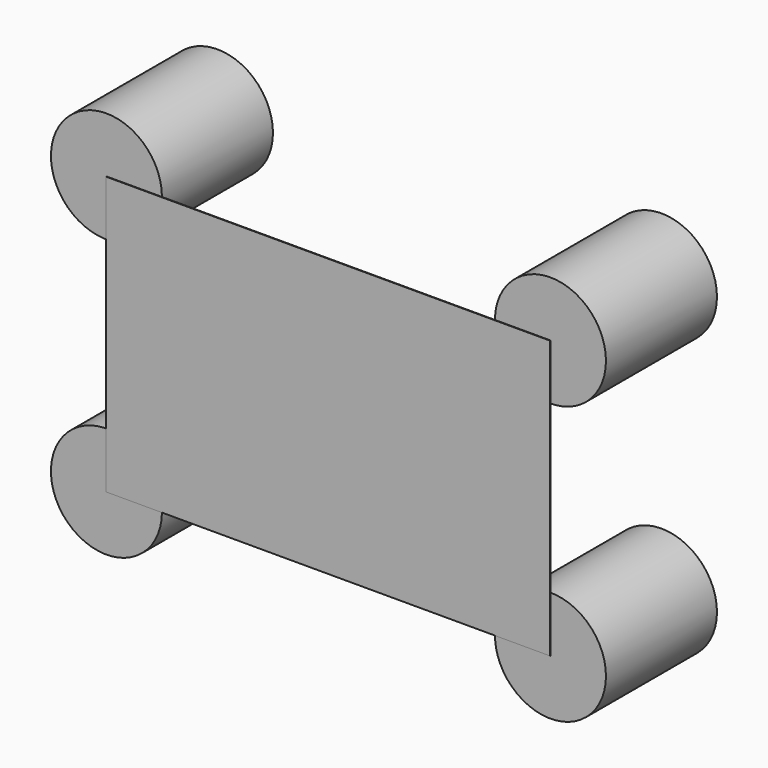
from build123d import *

# Parameters (mm, degrees)
F0_R     = 10
F1_DEPTH = 25
F2_W     = 80
F2_H     = 50
F3_DEPTH = 0.1


with BuildPart() as f1:
    # F0 (on Front) → F1 (new body)
    with BuildSketch(Plane.XZ):
        with Locations((-40, -25)):
            Circle(F0_R)
        with Locations((-40, 25)):
            Circle(F0_R)
        with Locations((40, -25)):
            Circle(F0_R)
        with Locations((40, 25)):
            Circle(F0_R)
    extrude(amount=F1_DEPTH)


with BuildPart() as f3:
    # F2 (on face) → F3 (new body)
    with BuildSketch(Plane.XZ.offset(25)):
        Rectangle(F2_W, F2_H)
    extrude(amount=F3_DEPTH)


solid = Compound([f1.part, f3.part])
